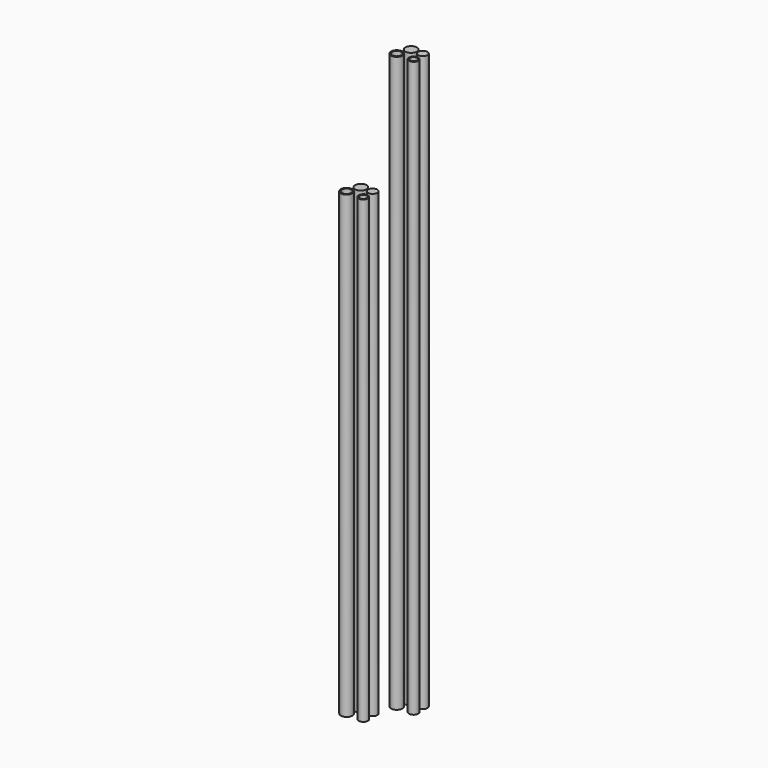
from build123d import *

# Parameters (mm, degrees)
F0_R     = 5
F0_R_2   = 4
F0_R_3   = 3
F1_DEPTH = 500
F2_R     = 5
F2_R_2   = 4
F2_R_3   = 3
F3_DEPTH = 400


with BuildPart() as f1:
    # F0 (on Top) → F1 (new body)
    with BuildSketch(Plane.XY):
        with Locations((-54.57551, 54.932353)):
            Circle(F0_R)
        with Locations((-44.638025, 55.329853)):
            Circle(F0_R_2)
        with Locations((-58.418002, 44.199873)):
            Circle(F0_R)
        with Locations((-58.418002, 44.199873)):
            Circle(F0_R_2, mode=Mode.SUBTRACT)
        with Locations((-44.373027, 44.862375)):
            Circle(F0_R_2)
        with Locations((-44.373027, 44.862375)):
            Circle(F0_R_3, mode=Mode.SUBTRACT)
    extrude(amount=F1_DEPTH)


with BuildPart() as f3:
    # F2 (on Top) → F3 (new body)
    with BuildSketch(Plane.XY):
        with Locations((-74.648722, 25.422063)):
            Circle(F2_R)
        with Locations((-64.711238, 25.819563)):
            Circle(F2_R_2)
        with Locations((-78.491215, 14.689583)):
            Circle(F2_R)
        with Locations((-78.491215, 14.689583)):
            Circle(F2_R_2, mode=Mode.SUBTRACT)
        with Locations((-64.44624, 15.352085)):
            Circle(F2_R_2)
        with Locations((-64.44624, 15.352085)):
            Circle(F2_R_3, mode=Mode.SUBTRACT)
    extrude(amount=F3_DEPTH)


solid = Compound([f1.part, f3.part])
